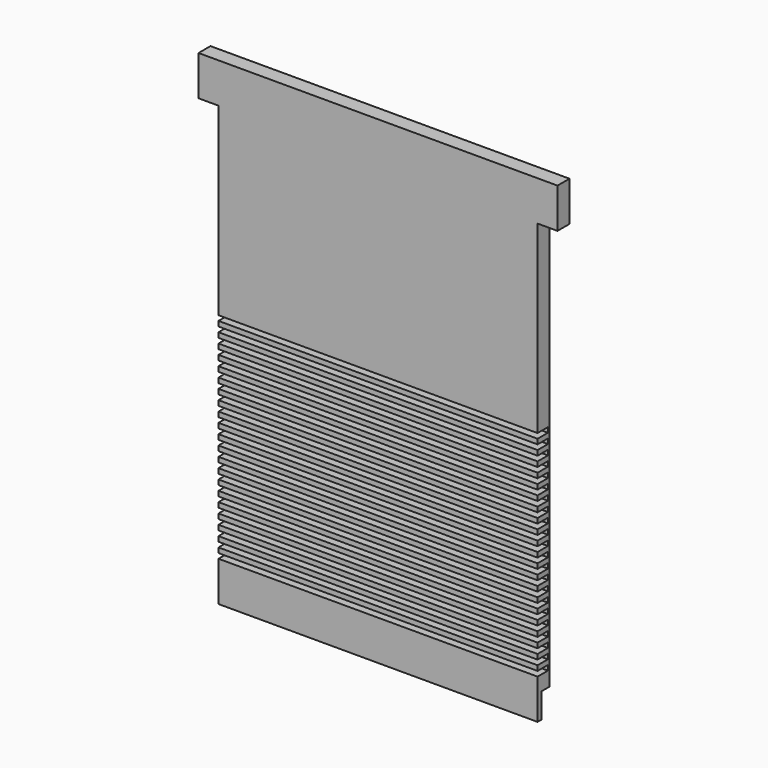
from build123d import *

# Parameters (mm, degrees)
F1_DEPTH = 19.05
F2_W     = 406.4
F2_H     = 6.35
F3_DEPTH = 16.51
F4_W     = 406.4
F4_H     = 31.75
F5_DEPTH = 12.7


with BuildPart() as f1:
    # F0 (on Front) → F1 (new body)
    with BuildSketch(Plane.XZ):
        Polygon((218.022645, -71.199347), (218.022645, 487.600653), (243.422645, 487.600653), (243.422645, 538.400653), (-213.777355, 538.400653), (-213.777355, 487.600653), (-188.377355, 487.600653), (-188.377355, -71.199347), align=None)
    extrude(amount=F1_DEPTH)

    # F2 (on face) → F3 (cut)
    with BuildSketch(Plane.XZ.offset(19.05)):
        with Locations((14.822645, -17.224347)):
            Rectangle(F2_W, F2_H)
        with Locations((14.822645, -4.524347)):
            Rectangle(F2_W, F2_H)
        with Locations((14.822645, 8.175653)):
            Rectangle(F2_W, F2_H)
        with Locations((14.822645, 20.875653)):
            Rectangle(F2_W, F2_H)
        with Locations((14.822645, 33.575653)):
            Rectangle(F2_W, F2_H)
        with Locations((14.822645, 46.275653)):
            Rectangle(F2_W, F2_H)
        with Locations((14.822645, 58.975653)):
            Rectangle(F2_W, F2_H)
        with Locations((14.822645, 71.675653)):
            Rectangle(F2_W, F2_H)
        with Locations((14.822645, 84.375653)):
            Rectangle(F2_W, F2_H)
        with Locations((14.822645, 97.075653)):
            Rectangle(F2_W, F2_H)
        with Locations((14.822645, 109.775653)):
            Rectangle(F2_W, F2_H)
        with Locations((14.822645, 122.475653)):
            Rectangle(F2_W, F2_H)
        with Locations((14.822645, 135.175653)):
            Rectangle(F2_W, F2_H)
        with Locations((14.822645, 147.875653)):
            Rectangle(F2_W, F2_H)
        with Locations((14.822645, 160.575653)):
            Rectangle(F2_W, F2_H)
        with Locations((14.822645, 173.275653)):
            Rectangle(F2_W, F2_H)
        with Locations((14.822645, 185.975653)):
            Rectangle(F2_W, F2_H)
        with Locations((14.822645, 198.675653)):
            Rectangle(F2_W, F2_H)
        with Locations((14.822645, 211.375653)):
            Rectangle(F2_W, F2_H)
        with Locations((14.822645, 224.075653)):
            Rectangle(F2_W, F2_H)
        with Locations((14.822645, 236.775653)):
            Rectangle(F2_W, F2_H)
        with Locations((14.822645, 249.475653)):
            Rectangle(F2_W, F2_H)
    extrude(amount=-F3_DEPTH, mode=Mode.SUBTRACT)

    # F4 (on face) → F5 (cut)
    with BuildSketch(Plane(origin=(0, 0, 0), x_dir=(-1, 0, 0), z_dir=(0, 1, 0))):
        with Locations((-14.822645, -55.324347)):
            Rectangle(F4_W, F4_H)
    extrude(amount=-F5_DEPTH, mode=Mode.SUBTRACT)


solid = f1.part
